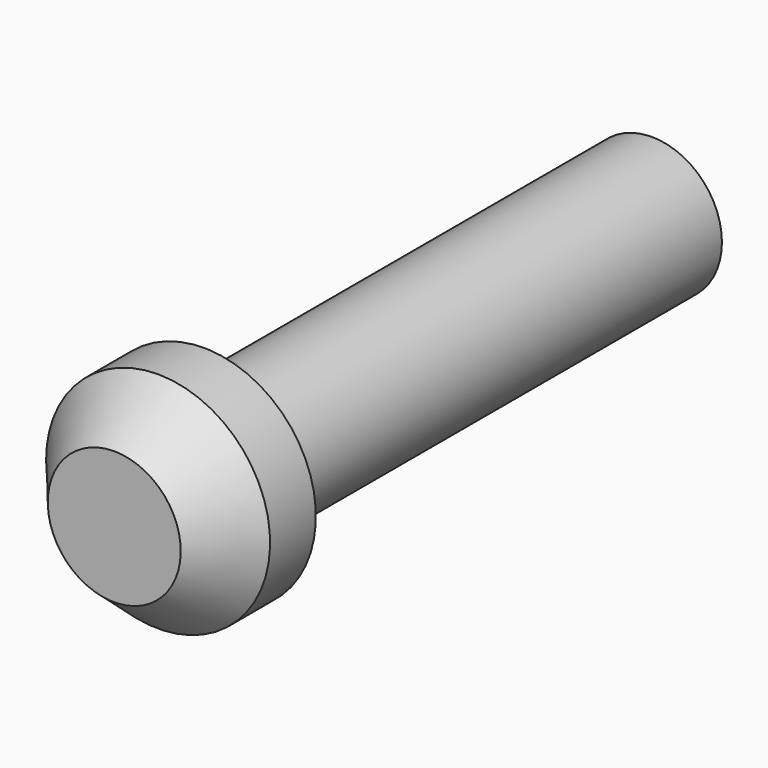
from build123d import *

# Parameters (mm, degrees)
F1_DEPTH = 15.875
F3_DEPTH = 3.175


with BuildPart() as f1:
    # F0 (on Front) → F1 (new body)
    with BuildSketch(Plane.XZ):
        with BuildLine():
            ThreePointArc((-1.984375, 0), (0, -1.984375), (1.984375, 0))
            ThreePointArc((1.984375, 0), (0, 1.984375), (-1.984375, 0))
        make_face()
    extrude(amount=F1_DEPTH)

    # F2 (on face) → F3 (join)
    with BuildSketch(Plane.XZ.offset(15.875)):
        with BuildLine():
            ThreePointArc((3.175, 0), (0, 3.175), (-3.175, 0))
            ThreePointArc((-3.175, 0), (0, -3.175), (3.175, 0))
        make_face()
        with BuildLine():
            ThreePointArc((1.984375, 0), (0, -1.984375), (-1.984375, 0))
            ThreePointArc((-1.984375, 0), (0, 1.984375), (1.984375, 0))
        make_face(mode=Mode.SUBTRACT)
        with BuildLine():
            ThreePointArc((1.984375, 0), (0, 1.984375), (-1.984375, 0))
            ThreePointArc((-1.984375, 0), (0, -1.984375), (1.984375, 0))
        make_face()
    extrude(amount=F3_DEPTH)

    # F4 (on Right) → F5 (revolve, cut)
    with BuildSketch(Plane.YZ):
        Polygon((-19.8592845504, 1.2116890307), (-16.6845522668, 3.8504265809), (-19.8592845504, 3.8091964072), align=None)
    revolve(axis=Axis((0, -12.0745478198, 0), (0, -1, 0)), mode=Mode.SUBTRACT)


solid = f1.part
